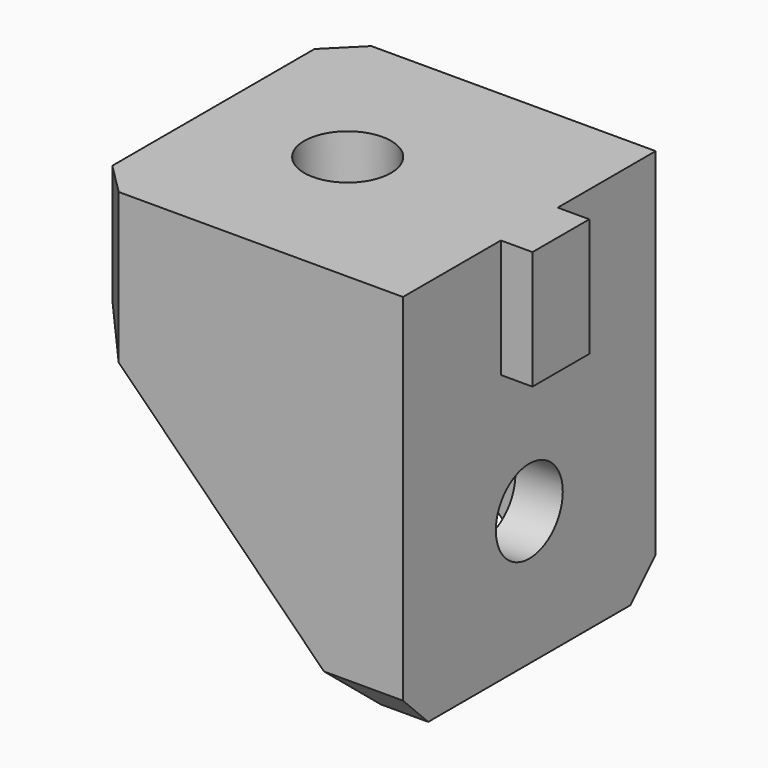
from build123d import *

# Parameters (mm, degrees)
F0_W      = 2
F0_H      = 4.5
F1_DEPTH  = 7.5
F3_DEPTH  = 10
F5_DEPTH  = 6
F6_SIZE   = 2
F7_SIZE   = 2
F8_R      = 2.65
F9_DEPTH  = 25
F10_SIZE  = 2
F11_R     = 5
F12_DEPTH = 25
F13_W     = 22
F13_H     = 24.5
F14_DEPTH = 25
F16_DEPTH = 4
F17_R     = 2.75
F18_DEPTH = 25


with BuildPart() as f1:
    # F0 (on Top) → F1 (new body, symmetric)
    with BuildSketch(Plane.XY):
        with Locations((-9, 0)):
            Rectangle(F0_W, F0_H)
    extrude(amount=F1_DEPTH, both=True)

    # F2 (on Front) → F3 (join, symmetric)
    with BuildSketch(Plane.XZ):
        Polygon((-10, -24.5), (-10, 24.5), (-13, 24.5), (-30, 7.5), (-30, -7.5), (-13, -24.5), align=None)
    extrude(amount=F3_DEPTH, both=True)

    # F4 (on Front) → F5 (cut, symmetric)
    with BuildSketch(Plane.XZ):
        Polygon((-13, 7.5), (-13, 24.5), (-30, 7.5), align=None)
        Polygon((-13, -7.5), (-30, -7.5), (-13, -24.5), align=None)
    extrude(amount=F5_DEPTH, both=True, mode=Mode.SUBTRACT)

    # F6
    f6_edges = [f1.edges().sort_by_distance(p)[0] for p in [
        (-13, 6, -16),
        (-21.5, 6, -7.5),
        (-13, 0, -7.5),
        (-21.5, -6, -7.5),
        (-13, -6, -16),
        (-21.5, -6, 7.5),
        (-13, -6, 16),
        (-13, 6, 16),
        (-21.5, 6, 7.5),
        (-13, 0, 7.5),
    ]]
    chamfer(f6_edges, length=F6_SIZE)

    # F7
    f7_edges = [f1.edges().sort_by_distance(p)[0] for p in [
        (-30, -10, 0),
        (-30, 10, 0),
    ]]
    chamfer(f7_edges, length=F7_SIZE)

    # F8 (on face) → F9 (cut)
    with BuildSketch(Plane.YZ.offset(-10)):
        with Locations((0, -16)):
            Circle(F8_R)
        with Locations((0, 16)):
            Circle(F8_R)
    extrude(amount=-F9_DEPTH, mode=Mode.SUBTRACT)

    # F10
    f10_edges = [f1.edges().sort_by_distance(p)[0] for p in [
        (-11.5, 10, -24.5),
        (-11.5, -10, -24.5),
        (-11.5, 10, 24.5),
        (-11.5, -10, 24.5),
    ]]
    chamfer(f10_edges, length=F10_SIZE)

    # F11 (on face) → F12 (cut)
    with BuildSketch(Plane(origin=(-13, 0, 0), x_dir=(0, -1, 0), z_dir=(-1, 0, 0))):
        with Locations((0, 16)):
            Circle(F11_R)
        with Locations((0, -16)):
            Circle(F11_R)
    extrude(amount=F12_DEPTH, mode=Mode.SUBTRACT)

    # F13 (on face) → F14 (cut)
    with BuildSketch(Plane.XZ.offset(10)):
        with Locations((-19, 12.25)):
            Rectangle(F13_W, F13_H)
    extrude(amount=-F14_DEPTH, mode=Mode.SUBTRACT)

    # F15 (on face) → F16 (cut)
    with BuildSketch(Plane(origin=(0, 0, -7.5), x_dir=(1, 0, 0), z_dir=(0, 0, -1))):
        Polygon((-19.190599, 4), (-23.809401, 4), (-26.118802, 0), (-23.809401, -4), (-19.190599, -4), (-16.881198, 0), align=None)
    extrude(amount=-F16_DEPTH, mode=Mode.SUBTRACT)

    # F17 (on face) → F18 (cut)
    with BuildSketch(Plane(origin=(0, 0, -3.5), x_dir=(1, 0, 0), z_dir=(0, 0, -1))):
        with Locations((-21.5, 0)):
            Circle(F17_R)
    extrude(amount=-F18_DEPTH, mode=Mode.SUBTRACT)


solid = f1.part
